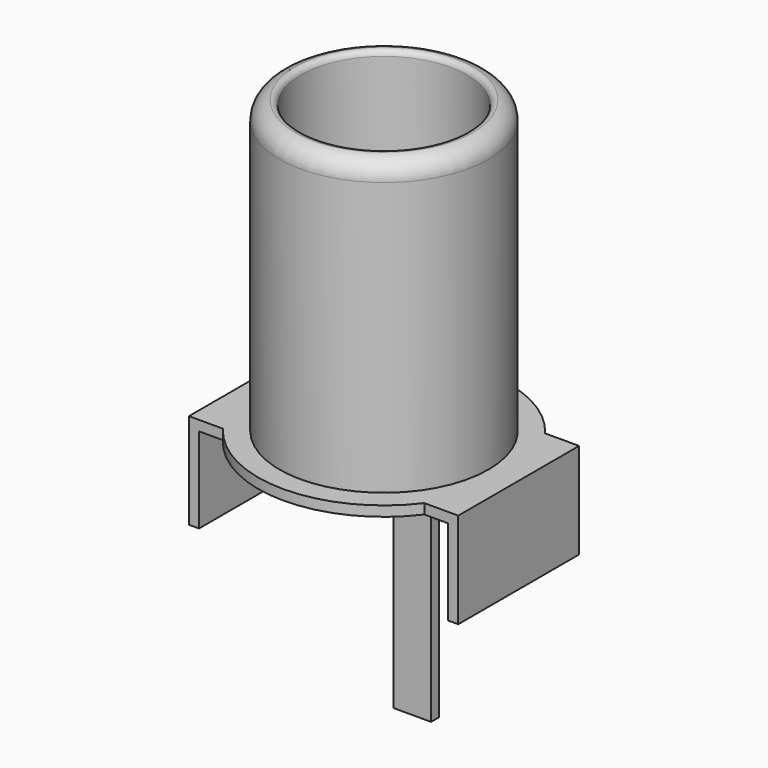
from build123d import *

# Parameters (mm, degrees)
BOX004_W          = 10.7
BOX004_H          = 6
BOX004_DEPTH      = 0.4
CYLINDER005_R     = 5
CYLINDER005_DEPTH = 0.4
CYLINDER006_R     = 4.15
CYLINDER006_DEPTH = 12
FILLET002_R       = 0.75
CYLINDER007_R     = 3.3
CYLINDER007_DEPTH = 10
FILLET003_R       = 0.2
BOX005_W          = 1.5
BOX005_H          = 0.4
BOX005_DEPTH      = 10.1
BOX006_W          = 0.4
BOX006_H          = 6
BOX006_DEPTH      = 3.8
BOX007_W          = 0.4
BOX007_H          = 6
BOX007_DEPTH      = 3.8


with BuildPart() as part:
    # Box004 → Box004 (join)
    with BuildSketch(Plane(origin=(-5.35, -3, 0), x_dir=(1, 0, 0), z_dir=(0, 0, 1))):
        with Locations((5.35, 3)):
            Rectangle(BOX004_W, BOX004_H)
    extrude(amount=BOX004_DEPTH)

    # Cylinder005 → Cylinder005 (join)
    with BuildSketch(Plane.XY):
        Circle(CYLINDER005_R)
    extrude(amount=CYLINDER005_DEPTH)

    # Cylinder006 → Cylinder006 (join)
    with BuildSketch(Plane.XY):
        Circle(CYLINDER006_R)
    extrude(amount=CYLINDER006_DEPTH)

    # Fillet002
    fillet002_edges = [part.edges().sort_by_distance(p)[0] for p in [
        (-4.15, 0, 12),
    ]]
    fillet(fillet002_edges, radius=FILLET002_R)

    # Cylinder007 → Cylinder007 (cut)
    with BuildSketch(Plane.XY.offset(2)):
        Circle(CYLINDER007_R)
    extrude(amount=CYLINDER007_DEPTH, mode=Mode.SUBTRACT)

    # Fillet003
    fillet003_edges = [part.edges().sort_by_distance(p)[0] for p in [
        (-3.3, 0, 12),
    ]]
    fillet(fillet003_edges, radius=FILLET003_R)

    # Box005 → Box005 (join)
    with BuildSketch(Plane(origin=(-0.75, 1.4, -10.1), x_dir=(1, 0, 0), z_dir=(0, 0, 1))):
        with Locations((0.75, 0.2)):
            Rectangle(BOX005_W, BOX005_H)
    extrude(amount=BOX005_DEPTH)

    # Box006 → Box006 (join)
    with BuildSketch(Plane(origin=(4.95, -3, -3.4), x_dir=(1, 0, 0), z_dir=(0, 0, 1))):
        with Locations((0.2, 3)):
            Rectangle(BOX006_W, BOX006_H)
    extrude(amount=BOX006_DEPTH)

    # Box007 → Box007 (join)
    with BuildSketch(Plane(origin=(-5.35, -3, -3.4), x_dir=(1, 0, 0), z_dir=(0, 0, 1))):
        with Locations((0.2, 3)):
            Rectangle(BOX007_W, BOX007_H)
    extrude(amount=BOX007_DEPTH)


solid = part.part
